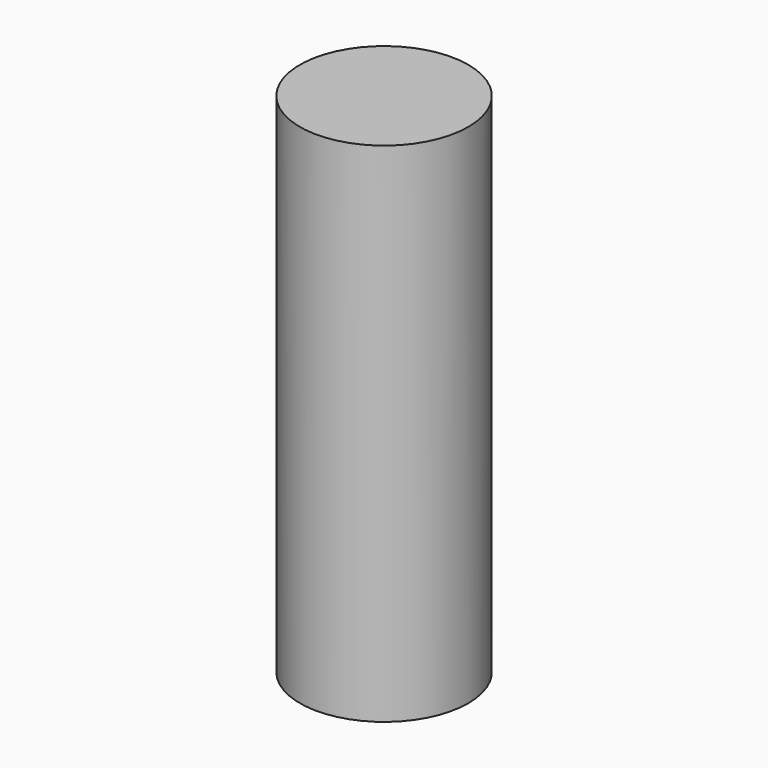
from build123d import *

# Parameters (mm, degrees)
CYLINDER_R     = 2.4892
CYLINDER_DEPTH = 15


with BuildPart() as part:
    # Cylinder → Cylinder (new body)
    with BuildSketch(Plane.XY.offset(-2.5)):
        Circle(CYLINDER_R)
    extrude(amount=CYLINDER_DEPTH)


solid = part.part
